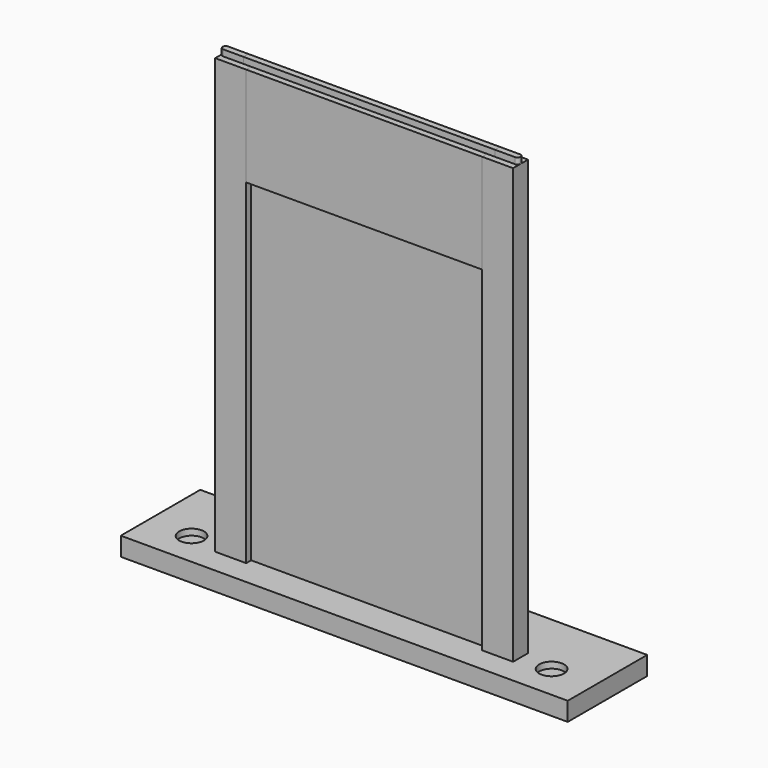
from build123d import *

# Parameters (mm, degrees)
F0_W           = 254
F0_H           = 355.6
F1_DEPTH       = 0.254
F3_DEPTH       = 444.5
F6_DEPTH       = 6.35
F8_DEPTH       = 6.35
F11_DEPTH      = 101.6
F13_DEPTH      = 128.5875
F13_DEPTH_BACK = 128.5875
F14_W          = 257.175
F14_H          = 6.35
F15_DEPTH      = 6.35
F17_W          = 457.2
F17_H          = 101.6
F18_DEPTH      = 19.05
F19_R          = 12.7
F20_DEPTH      = 6.35
F22_DEPTH      = 6.35


with BuildPart() as f1:
    # F0 (on Front) → F1 (new body)
    with BuildSketch(Plane.XZ):
        with Locations((0, 171.45)):
            Rectangle(F0_W, F0_H)
    extrude(amount=F1_DEPTH)


with BuildPart() as f3:
    # F2 (on Top) → F3 (new body)
    with BuildSketch(Plane.XY):
        Polygon((-120.65, -2.286), (-128.5875, -2.286), (-128.5875, 4.064), (-133.35, 4.064), (-133.35, 6.4516), (-128.5875, 6.4516), (-128.5875, 10.414), (-152.4, 10.414), (-152.4, -8.636), (-120.65, -8.636), align=None)
    extrude(amount=F3_DEPTH)


with BuildPart() as f4_1:
    # F4: instance of F3
    add(f3.part.mirror(Plane.YZ))


with BuildPart() as f3_1:
    add(f3.part)

    # F5 (on face) → F6 (join)
    with BuildSketch(Plane.XY.offset(444.5)):
        with BuildLine():
            Line((-128.5875, -2.286), (-128.5875, 4.064))
            Line((-128.5875, 4.064), (-149.225, 4.064))
            ThreePointArc((-149.225, 4.064), (-152.4, 0.889), (-149.225, -2.286))
            Line((-149.225, -2.286), (-128.5875, -2.286))
        make_face()
    extrude(amount=F6_DEPTH)

    # F7 (on face) → F8 (join)
    with BuildSketch(Plane(origin=(0, 0, 0), x_dir=(1, 0, 0), z_dir=(0, 0, -1))):
        with BuildLine():
            Line((-128.5875, -4.064), (-128.5875, 2.286))
            Line((-128.5875, 2.286), (-149.225, 2.286))
            ThreePointArc((-149.225, 2.286), (-152.4, -0.889), (-149.225, -4.064))
            Line((-149.225, -4.064), (-128.5875, -4.064))
        make_face()
    extrude(amount=F8_DEPTH)


with BuildPart() as f11:
    # F10 (on face) → F11 (new body)
    with BuildSketch(Plane.XY.offset(444.5)):
        Polygon((-128.5875, 10.414), (-128.5875, -2.286), (-120.65, -2.286), (-120.65, -8.636), (0, -8.636), (120.65, -8.636), (120.65, -2.286), (128.5875, -2.286), (128.5875, 10.414), (0, 10.414), align=None)
    extrude(amount=-F11_DEPTH)

    # F12 (on Right) → F13 (cut, two sides)
    with BuildSketch(Plane.YZ) as f13_sk:
        Polygon((-2.286, 350.04375), (-2.286, 342.10625), (11.20775, 342.10625), (11.20775, 350.04375), (6.4516, 350.04375), (6.4516, 354.80625), (4.064, 354.80625), (4.064, 350.04375), align=None)
    extrude(amount=-F13_DEPTH, mode=Mode.SUBTRACT)
    extrude(f13_sk.sketch, amount=F13_DEPTH_BACK, mode=Mode.SUBTRACT)

    # F14 (on face) → F15 (join)
    with BuildSketch(Plane.XY.offset(444.5)):
        with Locations((0, 0.889)):
            Rectangle(F14_W, F14_H)
    extrude(amount=F15_DEPTH)


with BuildPart() as f16_1:
    # F16: instance of F3
    add(f3_1.part.mirror(Plane.YZ))


with BuildPart() as f18:
    # F17 (on Top) → F18 (new body)
    with BuildSketch(Plane.XY):
        with Locations((0, 16.764)):
            Rectangle(F17_W, F17_H)
    extrude(amount=-F18_DEPTH)

    # F19 (on face) → F20 (cut)
    with BuildSketch(Plane.XY):
        with Locations((-184.15, 0.889)):
            Circle(F19_R)
        with Locations((184.15, 0.889)):
            Circle(F19_R)
    extrude(amount=-F20_DEPTH, mode=Mode.SUBTRACT)

    # F21 (on face) → F22 (cut)
    with BuildSketch(Plane.XY):
        with BuildLine():
            Line((0, 4.064), (-149.225, 4.064))
            ThreePointArc((-149.225, 4.064), (-152.4, 0.889), (-149.225, -2.286))
            Line((-149.225, -2.286), (0, -2.286))
            Line((0, -2.286), (149.225, -2.286))
            ThreePointArc((149.225, -2.286), (152.4, 0.889), (149.225, 4.064))
            Line((149.225, 4.064), (0, 4.064))
        make_face()
    extrude(amount=-F22_DEPTH, mode=Mode.SUBTRACT)


solid = Compound([f1.part, f3_1.part, f11.part, f16_1.part, f18.part])
